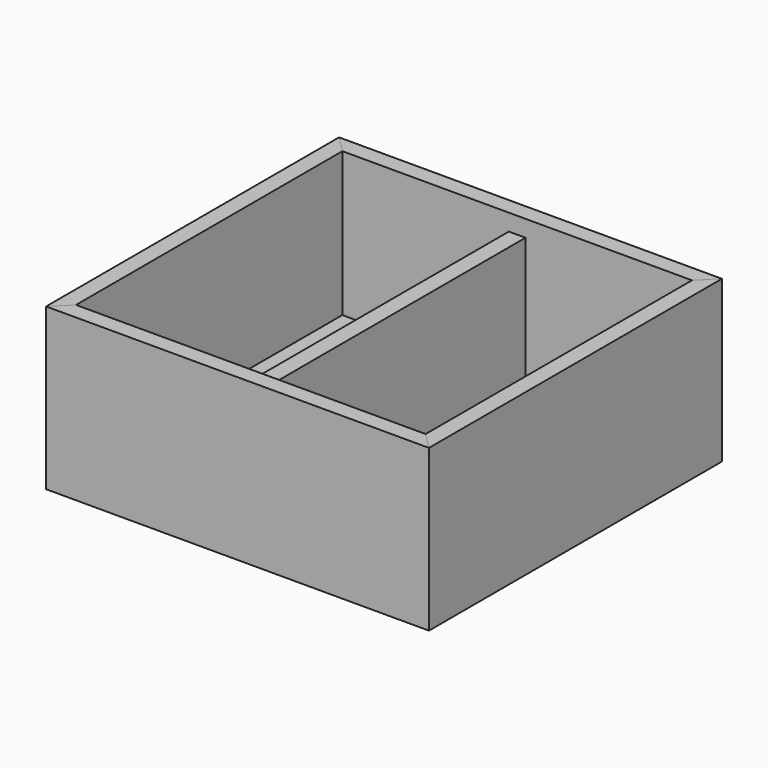
from build123d import *

# Parameters (mm, degrees)
F3_W      = 325
F3_H      = 310
F4_DEPTH  = 5
F6_DEPTH  = 145
F7_DEPTH  = 145
F10_W     = 15
F10_H     = 115
F11_DEPTH = 300


with BuildPart() as f4:
    # F3 (on plane+point) → F4 (new body, through all)
    with BuildSketch(Plane.XY.offset(10)):
        with Locations((0, 165)):
            Rectangle(F3_W, F3_H)
    extrude(amount=F4_DEPTH)


with BuildPart() as f6:
    # F5 (on Top) → F6 (new body, through all)
    with BuildSketch(Plane.XY):
        Polygon((-172.5, 330), (-172.5, 0), (-157.5, 15), (-157.5, 315), align=None)
    extrude(amount=F6_DEPTH)

    # F8: cut F4
    add(f4.part, mode=Mode.SUBTRACT)


with BuildPart() as f6b:
    # F5 (on Top) → F6, piece 2 (new body, through all)
    with BuildSketch(Plane.XY):
        Polygon((157.5, 15), (172.5, 0), (172.5, 330), (157.5, 315), align=None)
    extrude(amount=F6_DEPTH)

    # F8: cut F4
    add(f4.part, mode=Mode.SUBTRACT)


with BuildPart() as f7:
    # F5 (on Top) → F7 (new body, through all)
    with BuildSketch(Plane.XY):
        Polygon((172.5, 330), (-172.5, 330), (-157.5, 315), (157.5, 315), align=None)
    extrude(amount=F7_DEPTH)

    # F9: cut F4
    add(f4.part, mode=Mode.SUBTRACT)


with BuildPart() as f7b:
    # F5 (on Top) → F7, piece 2 (new body, through all)
    with BuildSketch(Plane.XY):
        Polygon((-157.5, 15), (-172.5, 0), (172.5, 0), (157.5, 15), align=None)
    extrude(amount=F7_DEPTH)

    # F9: cut F4
    add(f4.part, mode=Mode.SUBTRACT)


with BuildPart() as f11:
    # F10 (on face) → F11 (new body, through all)
    with BuildSketch(Plane.XZ.offset(-315)):
        with Locations((0, 72.5)):
            Rectangle(F10_W, F10_H)
    extrude(amount=F11_DEPTH)


solid = Compound([f4.part, f6.part, f6b.part, f7.part, f7b.part, f11.part])
